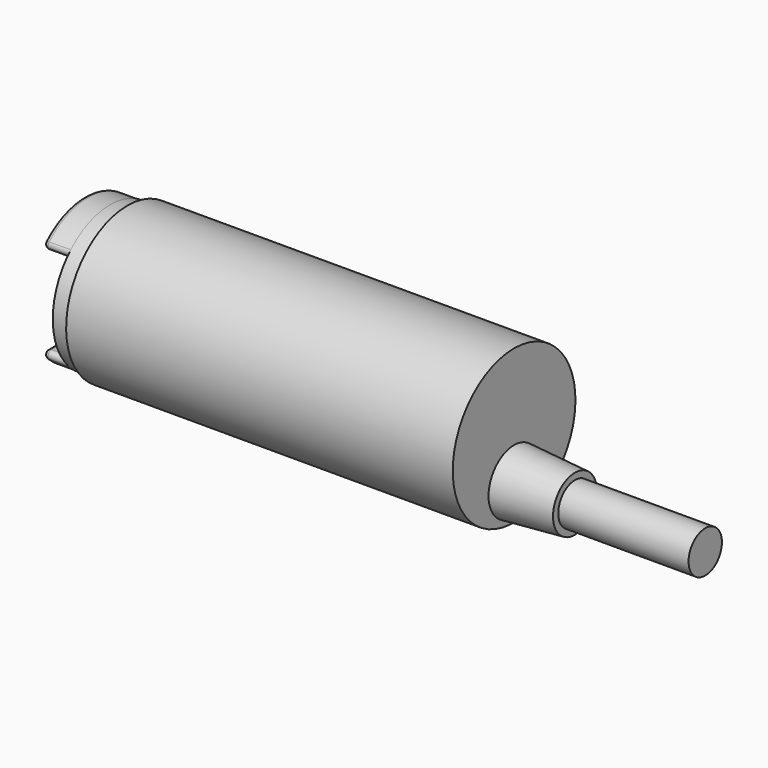
from build123d import *

# Parameters (mm, degrees)
F2_W      = 3
F2_H      = 10.2
F3_DEPTH  = 12.5
F4_R      = 0.5
F8_W      = 15
F8_H      = 2.4
F11_DEPTH = 0.75
F13_DEPTH = 8.826


with BuildPart() as f1:
    # F0 (on Front) → F1 (revolve)
    with BuildSketch(Plane.XZ):
        Polygon((-49.5, 8.2), (-49.5, 0), (0, 0), (0, 8.825), (-44.5, 8.825), (-44.5, 8.25), (-46.5, 8.25), (-46.5, 8.2), align=None)
    revolve(axis=Axis((-24.75, 0, 0), (-1, 0, 0)))

    # F2 (on Front) → F3 (cut, symmetric)
    with BuildSketch(Plane.XZ):
        with Locations((-48, 0)):
            Rectangle(F2_W, F2_H)
    extrude(amount=F3_DEPTH, both=True, mode=Mode.SUBTRACT)

    # F4
    f4_edges = [f1.edges().sort_by_distance(p)[0] for p in [
        (-49.5, 0, 5.1),
        (-48, 6.421059, 5.1),
        (-48, -6.421059, 5.1),
        (-49.5, 0, 8.2),
        (-48, 6.421059, -5.1),
        (-48, -6.421059, -5.1),
        (-49.5, 0, -8.2),
        (-49.5, 0, -5.1),
    ]]
    fillet(f4_edges, radius=F4_R)


with BuildPart() as f7:
    # F6 (on offset) → F7 (revolve)
    with BuildSketch(Plane.XY.offset(-4.65)):
        Polygon((0, 0), (0, -3.675), (7, -3.15), (7, 0), align=None)
    revolve(axis=Axis((3.5, 0, -4.65), (1, 0, 0)))


with BuildPart() as f9:
    # F8 (on offset) → F9 (revolve)
    with BuildSketch(Plane.XY.offset(-4.65)):
        with Locations((14.5, 1.2)):
            Rectangle(F8_W, F8_H)
    revolve(axis=Axis((14.5, 0, -4.65), (1, 0, 0)))


with BuildPart() as f11:
    # F10 (on face) → F11 (new body)
    with BuildSketch(Plane(origin=(-46.5, 0, 0), x_dir=(0, -1, 0), z_dir=(-1, 0, 0))):
        with BuildLine():
            Line((-1.6, 4.075), (-6.1, 4.075))
            ThreePointArc((-6.1, 4.075), (-7.25, 0), (-6.1, -4.075))
            Line((-6.1, -4.075), (-1.6, -4.075))
            ThreePointArc((-1.6, -4.075), (-0.45, 0), (-1.6, 4.075))
        make_face()
    extrude(amount=F11_DEPTH)

    # F12 (on Front) → F13 (cut, through all)
    with BuildSketch(Plane.XZ):
        with BuildLine():
            ThreePointArc((-46.6, -4.075), (-47.0864793145, -2.0632574367), (-47.25, 0))
            Line((-47.25, 0), (-47.25, -4.075))
            Line((-47.25, -4.075), (-46.6, -4.075))
        make_face()
        with BuildLine():
            ThreePointArc((-47.25, 0), (-47.0864793145, 2.0632574367), (-46.6, 4.075))
            Line((-46.6, 4.075), (-47.25, 4.075))
            Line((-47.25, 4.075), (-47.25, 0))
        make_face()
    extrude(amount=-F13_DEPTH, mode=Mode.SUBTRACT)


with BuildPart() as f14_1:
    # F14: instance of F11
    add(f11.part.mirror(Plane.XZ))


solid = Compound([f1.part, f7.part, f9.part, f11.part, f14_1.part])
